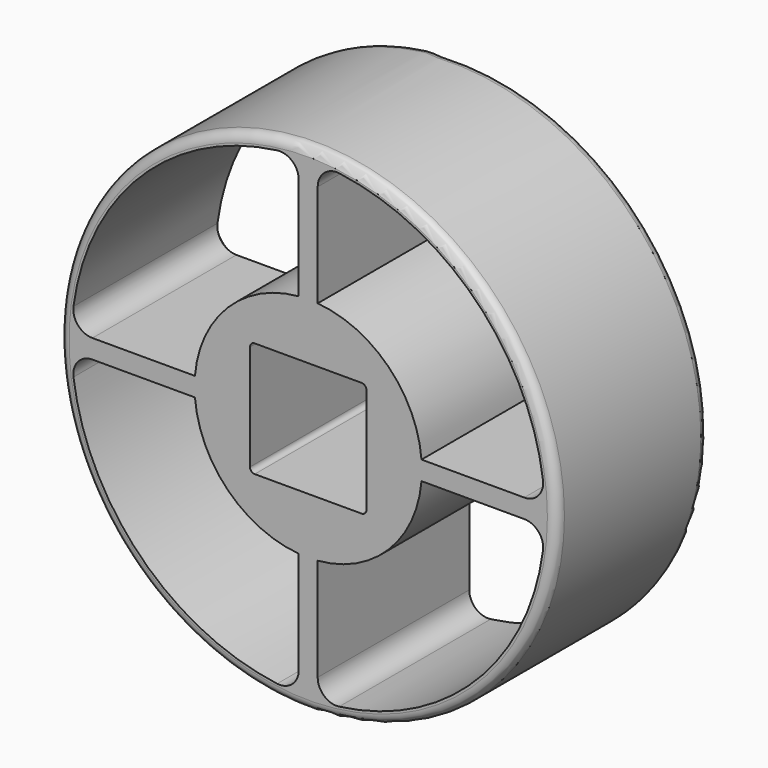
from build123d import *

# Parameters (mm, degrees)
SKETCH_R        = 26.25
PAD_DEPTH       = 20
SKETCH001_W     = 12.3
SKETCH001_H     = 12.15
POCKET_DEPTH    = 20.001
FILLET_R        = 0.5
POCKET001_DEPTH = 20.001
CHAMFER_SIZE    = 1
FILLET001_R     = 1


with BuildPart() as part:
    # Sketch → Pad (new body)
    with BuildSketch(Plane.XZ):
        Circle(SKETCH_R)
    extrude(amount=PAD_DEPTH)

    # Sketch001 (on Face2 of Pad) → Pocket (cut, through all)
    with BuildSketch(Plane(origin=(0, 0, 0), x_dir=(1, 0, 0), z_dir=(0, 1, 0))):
        Rectangle(SKETCH001_W, SKETCH001_H)
    extrude(amount=-POCKET_DEPTH, mode=Mode.SUBTRACT)

    # Fillet
    fillet_edges = [part.edges().sort_by_distance(p)[0] for p in [
        (6.15, -10, 6.075),
        (-6.15, -10, 6.075),
        (6.15, -10, -6.075),
        (-6.15, -10, -6.075),
    ]]
    fillet(fillet_edges, radius=FILLET_R)

    # Sketch002 (on Face1 of Fillet) → Pocket001 (cut, through all)
    with BuildSketch(Plane(origin=(0, 0, 0), x_dir=(1, 0, 0), z_dir=(0, 1, 0))):
        with BuildLine():
            Line((1, 11.958261), (1, 22.803509))
            ThreePointArc((3.26087, 24.786422), (1.681239, 24.307127), (1, 22.803509))
            ThreePointArc((24.786422, 3.26087), (17.67767, 17.67767), (3.26087, 24.786422))
            ThreePointArc((22.803509, 1), (24.307127, 1.681239), (24.786422, 3.26087))
            Line((11.958261, 1), (22.803509, 1))
            ThreePointArc((11.958261, 1), (8.485281, 8.485281), (1, 11.958261))
        make_face()
        with BuildLine():
            ThreePointArc((-1, 11.958261), (-8.485281, 8.485281), (-11.958261, 1))
            Line((-11.958261, 1), (-22.783588, 1))
            ThreePointArc((-24.783588, 3.282345), (-24.300912, 1.687845), (-22.783588, 1))
            ThreePointArc((-3.282345, 24.783588), (-17.67767, 17.67767), (-24.783588, 3.282345))
            ThreePointArc((-1, 22.783588), (-1.687845, 24.300912), (-3.282345, 24.783588))
            Line((-1, 11.958261), (-1, 22.783588))
        make_face()
        with BuildLine():
            ThreePointArc((-11.958261, -1), (-8.485281, -8.485281), (-1, -11.958261))
            Line((-1, -22.783588), (-1, -11.958261))
            ThreePointArc((-3.282345, -24.783588), (-1.687845, -24.300912), (-1, -22.783588))
            ThreePointArc((-24.783588, -3.282345), (-17.67767, -17.67767), (-3.282345, -24.783588))
            ThreePointArc((-22.783588, -1), (-24.300912, -1.687845), (-24.783588, -3.282345))
            Line((-11.958261, -1), (-22.783588, -1))
        make_face()
        with BuildLine():
            ThreePointArc((1, -11.958261), (8.485281, -8.485281), (11.958261, -1))
            Line((11.958261, -1), (22.803509, -1))
            ThreePointArc((24.786422, -3.26087), (24.307127, -1.681239), (22.803509, -1))
            ThreePointArc((3.282345, -24.783588), (17.685326, -17.670009), (24.786422, -3.26087))
            ThreePointArc((1, -22.783588), (1.687845, -24.300912), (3.282345, -24.783588))
            Line((1, -11.958261), (1, -22.783588))
        make_face()
    extrude(amount=-POCKET001_DEPTH, mode=Mode.SUBTRACT)

    # Chamfer
    chamfer_edges = [part.edges().sort_by_distance(p)[0] for p in [
        (-22.783588, -10, 1),
        (-24.300912, 0, 1.687845),
    ]]
    chamfer(chamfer_edges, length=CHAMFER_SIZE)

    # Fillet001
    fillet001_edges = [part.edges().sort_by_distance(p)[0] for p in [
        (-26.25, 0, 0),
        (-26.25, -20, 0),
    ]]
    fillet(fillet001_edges, radius=FILLET001_R)


solid = part.part
